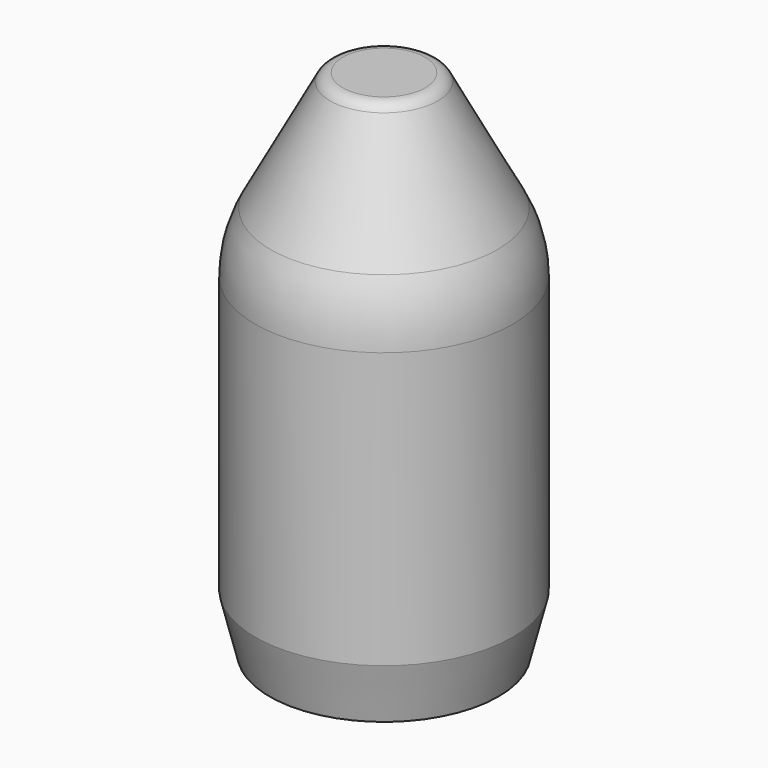
from build123d import *

# Parameters (mm, degrees)
F2_R     = 0.5
F3_SIZE2 = 0.5
F3_SIZE  = 2


with BuildPart() as f1:
    # F0 (on Front) → F1 (revolve)
    with BuildSketch(Plane.XZ):
        with BuildLine():
            Line((0, 18), (0, 0))
            Line((0, 0), (4.525, 0))
            Line((4.525, 0), (4.525, 11.681882))
            ThreePointArc((4.525, 11.681882), (4.389009, 12.782892), (3.989211, 13.817724))
            Line((3.989211, 13.817724), (1.75, 18))
            Line((1.75, 18), (0, 18))
        make_face()
    revolve(axis=Axis((0, 0, -7.393045), (0, 0, -1)))

    # F2
    f2_edges = [f1.edges().sort_by_distance(p)[0] for p in [
        (-1.75, 0, 18),
    ]]
    fillet(f2_edges, radius=F2_R)

    # F3
    f3_edges = [f1.edges().sort_by_distance(p)[0] for p in [
        (-4.525, 0, 0),
    ]]
    chamfer(f3_edges, length=F3_SIZE, length2=F3_SIZE2)


solid = f1.part
